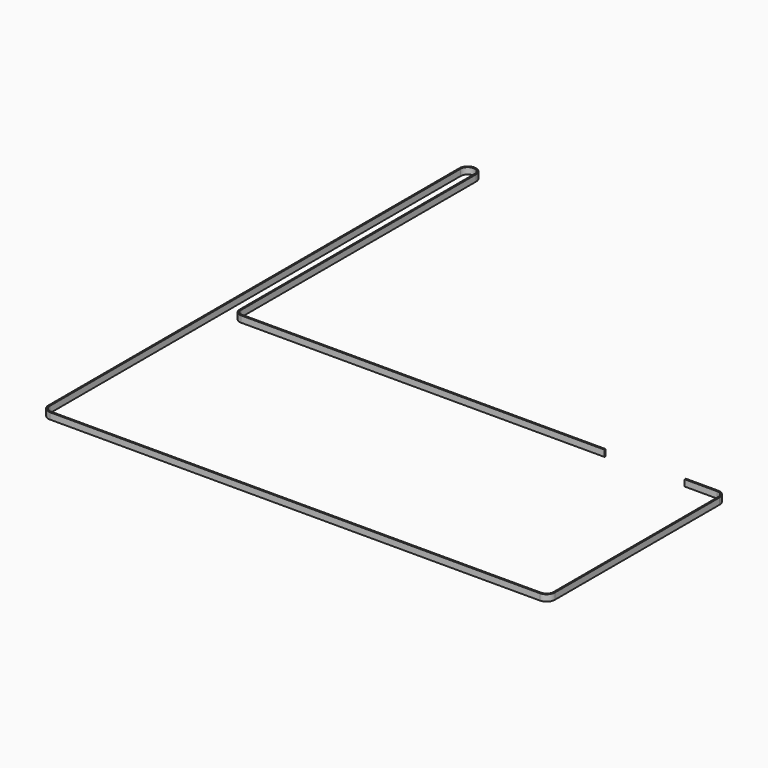
from build123d import *

# Parameters (mm, degrees)
F1_DEPTH = 6


with BuildPart() as f1:
    # F0 (on Top) → F1 (new body)
    with BuildSketch(Plane.XY):
        with BuildLine():
            ThreePointArc((-201.463409, 326.604773), (-194.963409, 333.104773), (-188.463409, 326.604773))
            Line((-188.463409, 326.604773), (-188.463409, 51.954773))
            ThreePointArc((-188.463409, 51.954773), (-186.559603, 47.358579), (-181.963409, 45.454773))
            Line((-181.963409, 45.454773), (157.736591, 45.453617))
            Line((157.736591, 45.453617), (157.736591, 46.754773))
            Line((157.736591, 46.754773), (-181.963409, 46.754773))
            ThreePointArc((-181.963409, 46.754773), (-185.640364, 48.277818), (-187.163409, 51.954773))
            Line((-187.163409, 51.954773), (-187.163409, 326.604773))
            ThreePointArc((-187.163409, 326.604773), (-194.963409, 334.404773), (-202.763409, 326.604773))
            Line((-202.763409, 326.604773), (-202.763409, -153.395227))
            ThreePointArc((-202.763409, -153.395227), (-200.478842, -158.910659), (-194.963409, -161.195227))
            Line((-194.963409, -161.195227), (262.736591, -161.195227))
            ThreePointArc((262.736591, -161.195227), (268.252024, -158.910659), (270.536591, -153.395227))
            Line((270.536591, -153.395227), (270.536591, 38.954837))
            ThreePointArc((270.536591, 38.954837), (268.263179, 44.459093), (262.768173, 46.754773))
            Line((262.768173, 46.754773), (232.736591, 46.754773))
            Line((232.736591, 46.754773), (232.736591, 45.453361))
            Line((232.736591, 45.453361), (262.879846, 45.453259))
            ThreePointArc((262.879846, 45.453259), (267.383157, 43.500101), (269.236591, 38.954837))
            Line((269.236591, 38.954837), (269.236591, -153.395227))
            ThreePointArc((269.236591, -153.395227), (267.332785, -157.991421), (262.736591, -159.895227))
            Line((262.736591, -159.895227), (-194.963409, -159.895227))
            ThreePointArc((-194.963409, -159.895227), (-199.559603, -157.991421), (-201.463409, -153.395227))
            Line((-201.463409, -153.395227), (-201.463409, 326.604773))
        make_face()
    extrude(amount=F1_DEPTH)


solid = f1.part
